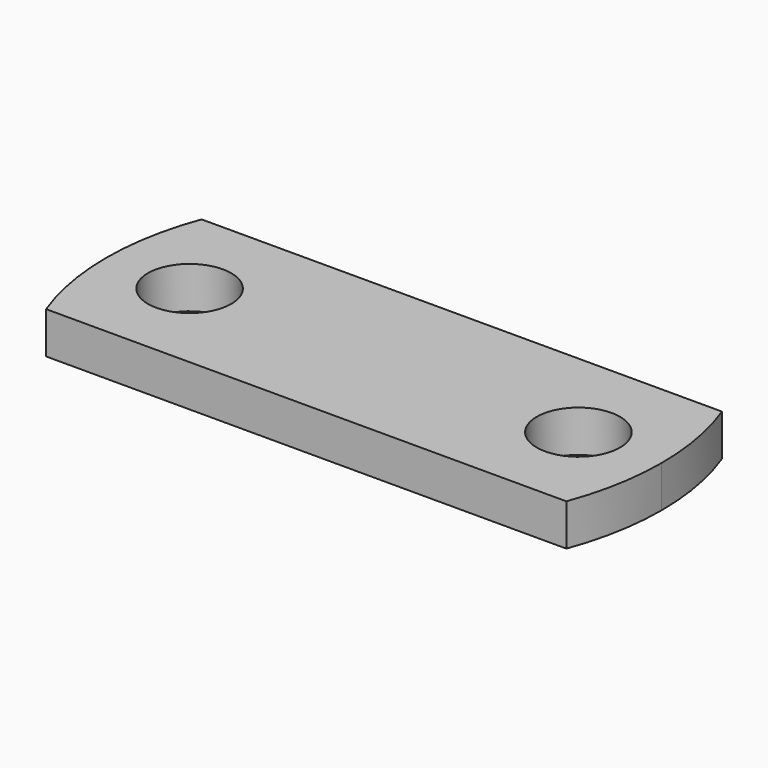
from build123d import *

# Parameters (mm, degrees)
F1_DEPTH = 3
F3_D     = 6


with BuildPart() as f1:
    # F0 (on Top) → F1 (new body)
    with BuildSketch(Plane.XY):
        with BuildLine():
            ThreePointArc((18.734994, -7), (19.681208, -3.556692), (20, 0))
            ThreePointArc((20, 0), (19.681208, 3.556692), (18.734994, 7))
            Line((18.734994, 7), (-18.734994, 7))
            ThreePointArc((-18.734994, 7), (-20, 0), (-18.734994, -7))
            Line((-18.734994, -7), (18.734994, -7))
        make_face()
    extrude(amount=F1_DEPTH)

    # F3 (through all)
    with Locations(Plane.XY.offset(3)):
        with Locations((-14, 0), (14, 0)):
            Hole(F3_D / 2)


solid = f1.part
